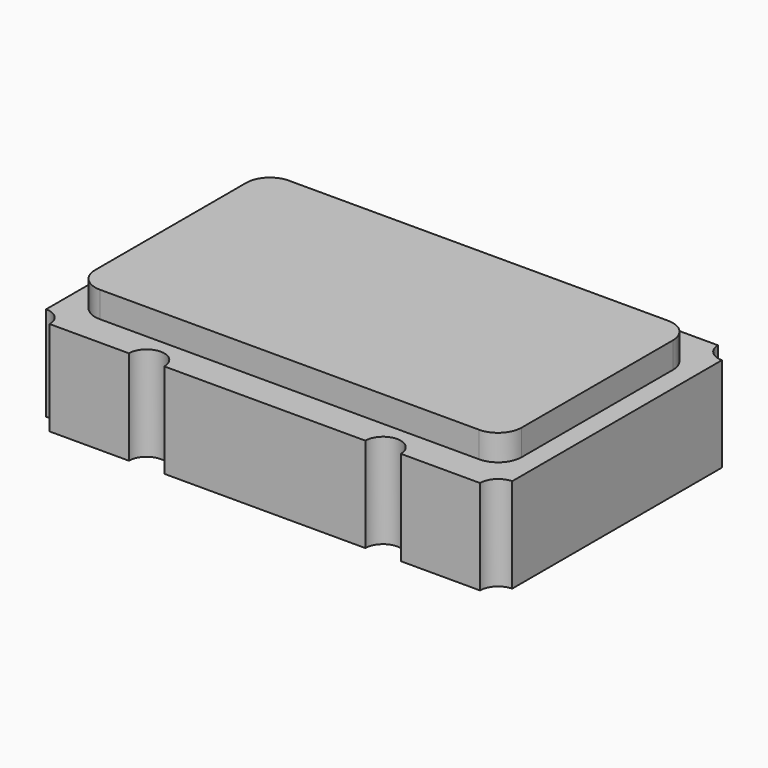
from build123d import *

# Parameters (mm, degrees)
F1_DEPTH = 1.016
F3_DEPTH = 0.2794


with BuildPart() as f1:
    # F0 (on Top) → F1 (new body)
    with BuildSketch(Plane.XY):
        with BuildLine():
            ThreePointArc((-2.3114, 1.6002), (-2.367196, 1.465496), (-2.5019, 1.4097))
            Line((-2.5019, 1.4097), (-2.5019, -1.4097))
            ThreePointArc((-2.5019, -1.4097), (-2.366767, -1.465261), (-2.310736, -1.6002))
            Line((-2.310736, -1.6002), (-1.4605, -1.6002))
            ThreePointArc((-1.4605, -1.6002), (-1.27, -1.4097), (-1.0795, -1.6002))
            Line((-1.0795, -1.6002), (1.0795, -1.6002))
            ThreePointArc((1.0795, -1.6002), (1.27, -1.4097), (1.4605, -1.6002))
            Line((1.4605, -1.6002), (2.3114, -1.6002))
            ThreePointArc((2.3114, -1.6002), (2.366955, -1.464054), (2.5019, -1.405643))
            Line((2.5019, -1.405643), (2.5019, 1.4097))
            ThreePointArc((2.5019, 1.4097), (2.365714, 1.465248), (2.307231, 1.6002))
            Line((2.307231, 1.6002), (1.4605, 1.6002))
            ThreePointArc((1.4605, 1.6002), (1.27, 1.4097), (1.0795, 1.6002))
            Line((1.0795, 1.6002), (-1.0795, 1.6002))
            ThreePointArc((-1.0795, 1.6002), (-1.27, 1.4097), (-1.4605, 1.6002))
            Line((-1.4605, 1.6002), (-2.3114, 1.6002))
        make_face()
    extrude(amount=F1_DEPTH)

    # F2 (on face) → F3 (join)
    with BuildSketch(Plane.XY.offset(1.016)):
        with BuildLine():
            Line((2.037003, 1.268534), (-2.037003, 1.268534))
            ThreePointArc((-2.037003, 1.268534), (-2.216609, 1.194139), (-2.291003, 1.014534))
            Line((-2.291003, 1.014534), (-2.291003, -1.014534))
            ThreePointArc((-2.291003, -1.014534), (-2.216609, -1.194139), (-2.037003, -1.268534))
            Line((-2.037003, -1.268534), (2.037003, -1.268534))
            ThreePointArc((2.037003, -1.268534), (2.216609, -1.194139), (2.291003, -1.014534))
            Line((2.291003, -1.014534), (2.291003, 1.014534))
            ThreePointArc((2.291003, 1.014534), (2.216609, 1.194139), (2.037003, 1.268534))
        make_face()
    extrude(amount=F3_DEPTH)


solid = f1.part
